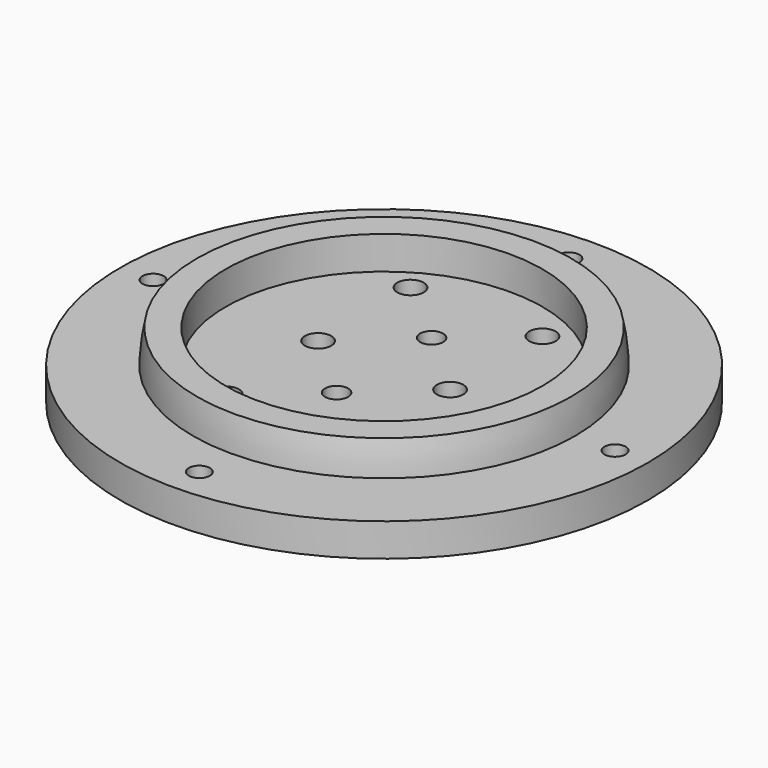
from build123d import *

# Parameters (mm, degrees)
CYLINDER089_R     = 1.6
CYLINDER089_DEPTH = 10
CYLINDER090_R     = 1.6
CYLINDER090_DEPTH = 10
CYLINDER091_R     = 1.6
CYLINDER091_DEPTH = 10
CYLINDER088_R     = 1.6
CYLINDER088_DEPTH = 10
CYLINDER085_R     = 2
CYLINDER085_DEPTH = 10
CYLINDER084_R     = 2
CYLINDER084_DEPTH = 10
CYLINDER087_R     = 1.75
CYLINDER087_DEPTH = 10
CYLINDER086_R     = 1.75
CYLINDER086_DEPTH = 10
CYLINDER078_R     = 2
CYLINDER078_DEPTH = 10
CYLINDER079_R     = 2
CYLINDER079_DEPTH = 10
CYLINDER080_R     = 2
CYLINDER080_DEPTH = 10
CYLINDER081_R     = 2
CYLINDER081_DEPTH = 10
CYLINDER083_R     = 24
CYLINDER083_DEPTH = 7
CYLINDER082_R     = 40
CYLINDER082_DEPTH = 5


with BuildPart() as obj1:
    # Cylinder089 → Cylinder089 (new body)
    with BuildSketch(Plane(origin=(40, 0, 65), x_dir=(1, 0, 0), z_dir=(0, 0, 1))):
        Circle(CYLINDER089_R)
    extrude(amount=CYLINDER089_DEPTH)


with BuildPart() as obj2:
    # Cylinder090 → Cylinder090 (new body)
    with BuildSketch(Plane(origin=(5, 35, 65), x_dir=(1, 0, 0), z_dir=(0, 0, 1))):
        Circle(CYLINDER090_R)
    extrude(amount=CYLINDER090_DEPTH)


with BuildPart() as obj3:
    # Cylinder091 → Cylinder091 (new body)
    with BuildSketch(Plane(origin=(5, -35, 65), x_dir=(1, 0, 0), z_dir=(0, 0, 1))):
        Circle(CYLINDER091_R)
    extrude(amount=CYLINDER091_DEPTH)


with BuildPart() as fusion045:
    # Cylinder088 → Cylinder088 (new body)
    with BuildSketch(Plane(origin=(-30, 0, 65), x_dir=(1, 0, 0), z_dir=(0, 0, 1))):
        Circle(CYLINDER088_R)
    extrude(amount=CYLINDER088_DEPTH)

    # Fusion045: union obj1, obj2, obj3
    add(obj1.part)
    add(obj2.part)
    add(obj3.part)


with BuildPart() as wirecut009:
    # Cylinder085 → Cylinder085 (new body)
    with BuildSketch(Plane(origin=(15, 0, 70), x_dir=(1, 0, 0), z_dir=(0, 0, 1))):
        Circle(CYLINDER085_R)
    extrude(amount=CYLINDER085_DEPTH)


with BuildPart() as wirecuts004:
    # Cylinder084 → Cylinder084 (new body)
    with BuildSketch(Plane(origin=(-5, 0, 70), x_dir=(1, 0, 0), z_dir=(0, 0, 1))):
        Circle(CYLINDER084_R)
    extrude(amount=CYLINDER084_DEPTH)

    # Fusion041: union wireCUt009
    add(wirecut009.part)


with BuildPart() as m3cuts009:
    # Cylinder087 → Cylinder087 (new body)
    with BuildSketch(Plane(origin=(5, 9, 70), x_dir=(1, 0, 0), z_dir=(0, 0, 1))):
        Circle(CYLINDER087_R)
    extrude(amount=CYLINDER087_DEPTH)


with BuildPart() as m3cute004:
    # Cylinder086 → Cylinder086 (new body)
    with BuildSketch(Plane(origin=(5, -9, 70), x_dir=(1, 0, 0), z_dir=(0, 0, 1))):
        Circle(CYLINDER086_R)
    extrude(amount=CYLINDER086_DEPTH)

    # Fusion042: union m3Cuts009
    add(m3cuts009.part)


with BuildPart() as cylinder078:
    # Cylinder078 → Cylinder078 (new body)
    with BuildSketch(Plane(origin=(0, -21, 0), x_dir=(1, 0, 0), z_dir=(0, 0, 1))):
        Circle(CYLINDER078_R)
    extrude(amount=CYLINDER078_DEPTH)


with BuildPart() as m3heatsetcuts012:
    # Cylinder079 → Cylinder079 (new body)
    with BuildSketch(Plane(origin=(20, -21, 0), x_dir=(1, 0, 0), z_dir=(0, 0, 1))):
        Circle(CYLINDER079_R)
    extrude(amount=CYLINDER079_DEPTH)

    # Fusion038: union Cylinder078
    add(cylinder078.part)


with BuildPart() as m3heatsetcuts012_1:
    # Fusion038 placement: moved
    add(m3heatsetcuts012.part.moved(Location((-5, 38.5, 70))))


with BuildPart() as cylinder080:
    # Cylinder080 → Cylinder080 (new body)
    with BuildSketch(Plane(origin=(0, -21, 0), x_dir=(1, 0, 0), z_dir=(0, 0, 1))):
        Circle(CYLINDER080_R)
    extrude(amount=CYLINDER080_DEPTH)


with BuildPart() as basecuts004:
    # Cylinder081 → Cylinder081 (new body)
    with BuildSketch(Plane(origin=(20, -21, 0), x_dir=(1, 0, 0), z_dir=(0, 0, 1))):
        Circle(CYLINDER081_R)
    extrude(amount=CYLINDER081_DEPTH)

    # Fusion039: union Cylinder080
    add(cylinder080.part)


with BuildPart() as basecuts004_1:
    # Fusion039 placement: moved
    add(basecuts004.part.moved(Location((-5, 3.5, 70))))

    # Fusion040: union m3HeatSetCuts012
    add(m3heatsetcuts012_1.part)

    # Fusion043: union wireCuts004, m3Cute004
    add(wirecuts004.part)
    add(m3cute004.part)


with BuildPart() as basecut004:
    # Cylinder083 → Cylinder083 (new body)
    with BuildSketch(Plane(origin=(5, 0, 74), x_dir=(1, 0, 0), z_dir=(0, 0, 1))):
        Circle(CYLINDER083_R)
    extrude(amount=CYLINDER083_DEPTH)


with BuildPart() as cut015:
    # Sphere005 → Sphere005 (revolve)
    with BuildSketch(Plane(origin=(5, 0, 74), x_dir=(1, 0, 0), z_dir=(0, -1, 0))):
        with BuildLine():
            ThreePointArc((29, 0), (28.841135, 3.031325), (28.36628, 6.029439))
            Line((28.36628, 6.029439), (0, 6.029439))
            Line((0, 6.029439), (0, 0))
            Line((0, 0), (29, 0))
        make_face()
    revolve(axis=Axis((5, 0, 74), (0, 0, 1)))

    # Cut015: cut baseCut004
    add(basecut004.part, mode=Mode.SUBTRACT)


with BuildPart() as lightmodule004:
    # Cylinder082 → Cylinder082 (new body)
    with BuildSketch(Plane(origin=(5, 0, 70), x_dir=(1, 0, 0), z_dir=(0, 0, 1))):
        Circle(CYLINDER082_R)
    extrude(amount=CYLINDER082_DEPTH)

    # Fusion044: union Cut015
    add(cut015.part)

    # Cut016: cut baseCUts004
    add(basecuts004_1.part, mode=Mode.SUBTRACT)

    # Cut017: cut Fusion045
    add(fusion045.part, mode=Mode.SUBTRACT)


with BuildPart() as lightmodule004_1:
    # Cut017 placement: moved
    add(lightmodule004.part.moved(Location((-5, -92.25, 0))))


solid = lightmodule004_1.part
